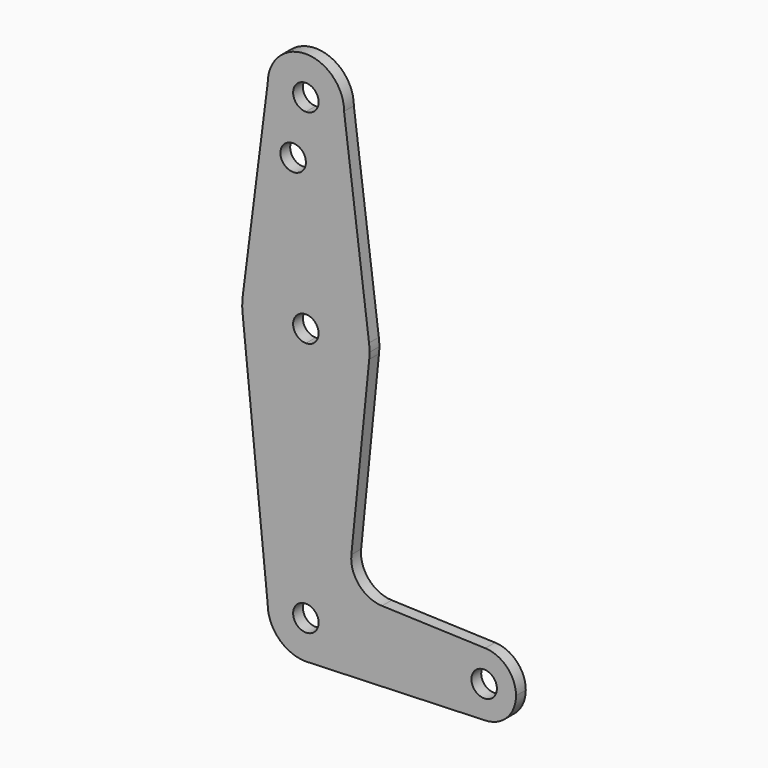
from build123d import *

# Parameters (mm, degrees)
F0_R     = 3.175
F1_DEPTH = 3.048


with BuildPart() as f1:
    # F0 (on Front) → F1 (new body)
    with BuildSketch(Plane.XZ):
        with BuildLine():
            ThreePointArc((3.175, 0), (-2.2450640303, -2.2450640303), (0, 3.175))
            Line((0, 3.175), (0, 9.525))
            ThreePointArc((0, 9.525), (-6.7351920908, 6.7351920908), (-9.525, 0))
            ThreePointArc((-9.525, 0), (-6.7351920908, -6.7351920908), (0, -9.525))
            Line((0, -9.525), (0.6773435479, -9.500885786))
            ThreePointArc((0.6773435479, -9.500885786), (6.9705567315, -6.4912990883), (9.525, 0))
            Line((9.525, 0), (3.175, 0))
        make_face()
        with BuildLine():
            ThreePointArc((-9.525, 0), (-6.7351920908, 6.7351920908), (0, 9.525))
            Line((0, 9.525), (0, 47.625))
            ThreePointArc((0, 47.625), (-10.644756084, 51.722700101), (-15.7942028036, 61.9003804205))
            Line((-15.7942028036, 61.9003804205), (-9.525, 0))
        make_face()
        with BuildLine():
            Line((0, 47.625), (0, 9.525))
            ThreePointArc((0, 9.525), (6.7351920908, 6.7351920908), (9.525, 0))
            Line((9.525, 0), (36.5125, 0))
            ThreePointArc((36.5125, 0), (38.9384772185, 5.7120069047), (44.7334821429, 7.9324362036))
            Line((44.7334821429, 7.9324362036), (18.9676000005, 8.8532337108))
            ThreePointArc((18.9676000005, 8.8532337108), (13.2611998974, 11.5713591498), (11.3411865923, 17.5933818124))
            Line((11.3411865923, 17.5933818124), (15.7954255641, 61.9125))
            ThreePointArc((15.7954255641, 61.9125), (10.6492737428, 51.7267849017), (0, 47.625))
        make_face()
        with BuildLine():
            Line((36.5125, 0), (9.525, 0))
            ThreePointArc((9.525, 0), (6.9705567315, -6.4912990883), (0.6773435479, -9.500885786))
            Line((0.6773435479, -9.500885786), (44.7324052746, -7.9324746146))
            ThreePointArc((44.7324052746, -7.9324746146), (38.9380895153, -5.7116327839), (36.5125, 0))
        make_face()
        with BuildLine():
            ThreePointArc((-15.7942028036, 61.9003804205), (-10.644756084, 51.722700101), (0, 47.625))
            Line((0, 47.625), (0, 60.325))
            ThreePointArc((0, 60.325), (-3.175, 63.5), (0, 66.675))
            Line((0, 66.675), (0, 79.375))
            ThreePointArc((0, 79.375), (-10.4912828548, 75.4142187767), (-15.7474569047, 65.5082893304))
            ThreePointArc((-15.7474569047, 65.5082893304), (-15.873667691, 63.7056672947), (-15.7942028036, 61.9003804205))
        make_face()
        with BuildLine():
            Line((0, 60.325), (0, 47.625))
            ThreePointArc((0, 47.625), (10.6492737428, 51.7267849017), (15.7954255641, 61.9125))
            ThreePointArc((15.7954255641, 61.9125), (15.8550939106, 62.7052534459), (15.875, 63.5))
            ThreePointArc((15.875, 63.5), (15.8430821396, 64.5061676396), (15.7474569047, 65.5082893304))
            ThreePointArc((15.7474569047, 65.5082893304), (10.4912828548, 75.4142187767), (0, 79.375))
            Line((0, 79.375), (0, 66.675))
            ThreePointArc((0, 66.675), (2.2450640303, 65.7450640303), (3.175, 63.5))
            ThreePointArc((3.175, 63.5), (2.2450640303, 61.2549359697), (0, 60.325))
        make_face()
        with BuildLine():
            ThreePointArc((44.7334821429, 7.9324362036), (38.9384772185, 5.7120069047), (36.5125, 0))
            ThreePointArc((36.5125, 0), (38.9380895153, -5.7116327839), (44.7324052746, -7.9324746146))
            ThreePointArc((44.7324052746, -7.9324746146), (50.1616327839, -5.5119104847), (52.3875, 0))
            ThreePointArc((52.3875, 0), (50.1620069047, 5.5115227815), (44.7334821429, 7.9324362036))
        make_face()
        with BuildLine():
            ThreePointArc((47.625, 0), (44.45, -3.175), (41.275, 0))
            ThreePointArc((41.275, 0), (44.45, 3.175), (47.625, 0))
        make_face(mode=Mode.SUBTRACT)
        with BuildLine():
            ThreePointArc((0, -9.525), (0.3388863295, -9.5189695375), (0.6773435479, -9.500885786))
            Line((0.6773435479, -9.500885786), (0, -9.525))
        make_face()
        with BuildLine():
            Line((-9.525, 114.3), (-15.7474569047, 65.5082893304))
            ThreePointArc((-15.7474569047, 65.5082893304), (-10.4912828548, 75.4142187767), (0, 79.375))
            Line((0, 79.375), (0, 100.0252))
            Line((0, 100.0252), (0, 104.775))
            ThreePointArc((0, 104.775), (-6.7351920908, 107.5648079092), (-9.525, 114.3))
        make_face()
        with Locations((-3.175, 100.0252)):
            Circle(F0_R, mode=Mode.SUBTRACT)
        with BuildLine():
            Line((0, 100.0252), (0, 79.375))
            ThreePointArc((0, 79.375), (10.4912828548, 75.4142187767), (15.7474569047, 65.5082893304))
            Line((15.7474569047, 65.5082893304), (9.525, 114.3))
            ThreePointArc((9.525, 114.3), (6.7351920908, 107.5648079092), (0, 104.775))
            Line((0, 104.775), (0, 100.0252))
        make_face()
        with BuildLine():
            ThreePointArc((9.525, 114.3), (0, 123.825), (-9.525, 114.3))
            ThreePointArc((-9.525, 114.3), (-6.7351920908, 107.5648079092), (0, 104.775))
            ThreePointArc((0, 104.775), (6.7351920908, 107.5648079092), (9.525, 114.3))
        make_face()
        with BuildLine():
            ThreePointArc((3.175, 114.3), (2.2450640303, 112.0549359697), (0, 111.125))
            ThreePointArc((0, 111.125), (-2.2450640303, 116.5450640303), (3.175, 114.3))
        make_face(mode=Mode.SUBTRACT)
        with BuildLine():
            Line((0, 9.525), (0, 3.175))
            ThreePointArc((0, 3.175), (2.2450640303, 2.2450640303), (3.175, 0))
            Line((3.175, 0), (9.525, 0))
            ThreePointArc((9.525, 0), (6.7351920908, 6.7351920908), (0, 9.525))
        make_face()
    extrude(amount=F1_DEPTH)


solid = f1.part
